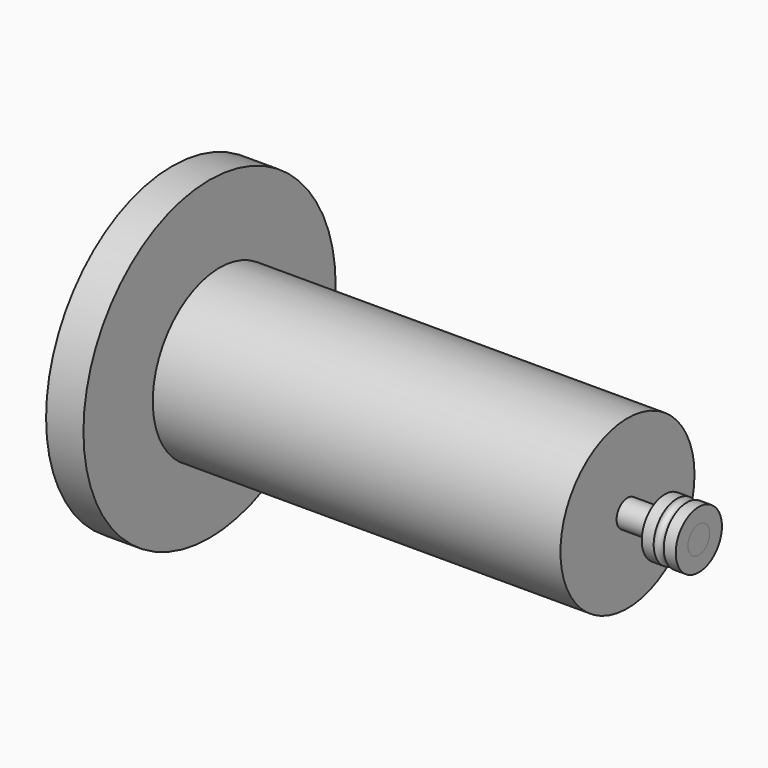
from build123d import *

# Parameters (mm, degrees)
F0_R      = 24.65
F1_DEPTH  = 120
F2_R      = 4
F3_DEPTH  = 21
F4_R      = 13.995559
F5_DEPTH  = 3
F6_R      = 46.4
F6_R_2    = 13.995559
F7_DEPTH  = 11
F8_R      = 7
F9_DEPTH  = 8
F10_R     = 3
F11_DEPTH = 6
F12_R     = 8.5
F12_R_2   = 4
F13_DEPTH = 10
F15_R     = 1.5


with BuildPart() as f1:
    # F0 (on Right) → F1 (new body)
    with BuildSketch(Plane.YZ):
        Circle(F0_R)
    extrude(amount=F1_DEPTH)

    # F2 (on face) → F3 (join)
    with BuildSketch(Plane.YZ.offset(120)):
        Circle(F2_R)
    extrude(amount=F3_DEPTH)

    # F4 (on face) → F5 (join)
    with BuildSketch(Plane(origin=(0, 0, 0), x_dir=(0, -1, 0), z_dir=(-1, 0, 0))):
        Circle(F4_R)
    extrude(amount=F5_DEPTH)


with BuildPart() as f7:
    # F6 (on face) → F7 (new body)
    with BuildSketch(Plane(origin=(-3, 0, 0), x_dir=(0, -1, 0), z_dir=(-1, 0, 0))):
        Circle(F6_R)
        Circle(F6_R_2, mode=Mode.SUBTRACT)
        Circle(F6_R_2)
    extrude(amount=F7_DEPTH)

    # F8 (on face) → F9 (join)
    with BuildSketch(Plane(origin=(-14, 0, 0), x_dir=(0, -1, 0), z_dir=(-1, 0, 0))):
        Circle(F8_R)
    extrude(amount=F9_DEPTH)

    # F10 (on face) → F11 (join)
    with BuildSketch(Plane(origin=(-22, 0, 0), x_dir=(0, -1, 0), z_dir=(-1, 0, 0))):
        Circle(F10_R)
    extrude(amount=F11_DEPTH)


with BuildPart() as f13:
    # F12 (on face) → F13 (new body)
    with BuildSketch(Plane.YZ.offset(141)):
        Circle(F12_R)
        Circle(F12_R_2, mode=Mode.SUBTRACT)
    extrude(amount=-F13_DEPTH)

    # F15 (on Top) → F16 (revolve, cut)
    with BuildSketch(Plane.XY):
        with Locations((136, 8.75)):
            Circle(F15_R)
    revolve(axis=Axis((251.482069, 0, 0), (1, 0, 0)), mode=Mode.SUBTRACT)


solid = Compound([f1.part, f7.part, f13.part])
